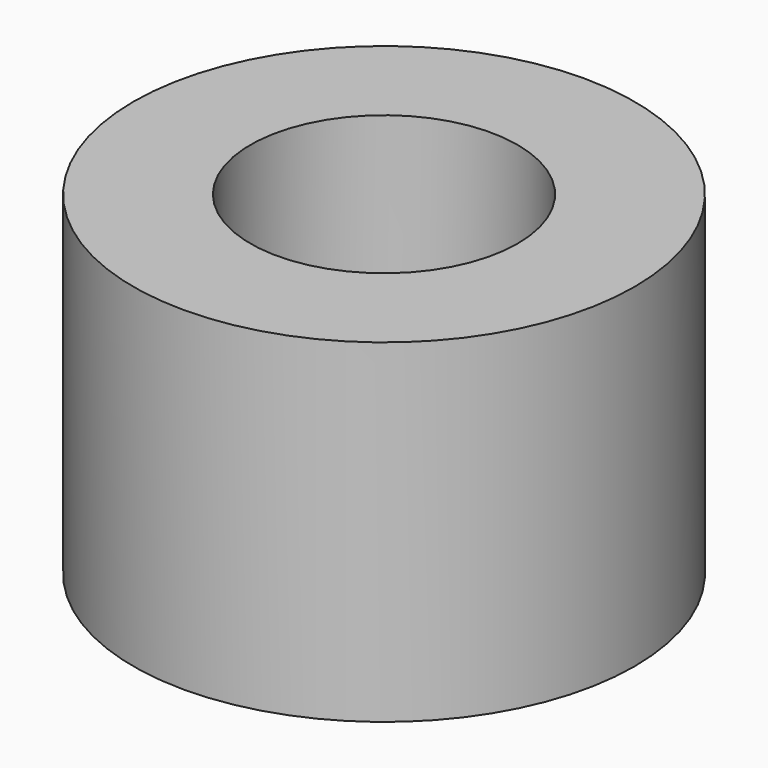
from build123d import *

# Parameters (mm, degrees)
F0_R     = 7.5
F0_R_2   = 4
F1_DEPTH = 10
F2_W     = 30
F2_H     = 1


with BuildPart() as f1:
    # F0 (on Top) → F1 (new body)
    with BuildSketch(Plane.XY):
        Circle(F0_R)
        Circle(F0_R_2, mode=Mode.SUBTRACT)
    extrude(amount=F1_DEPTH)


with BuildPart() as f3:
    # F2 (on Front) → F3 (revolve)
    with BuildSketch(Plane.XZ):
        with Locations((31.168116, 42.156867)):
            Rectangle(F2_W, F2_H)
    revolve(axis=Axis((31.168116, 0, 42.656867), (1, 0, 0)))


solid = f1.part
